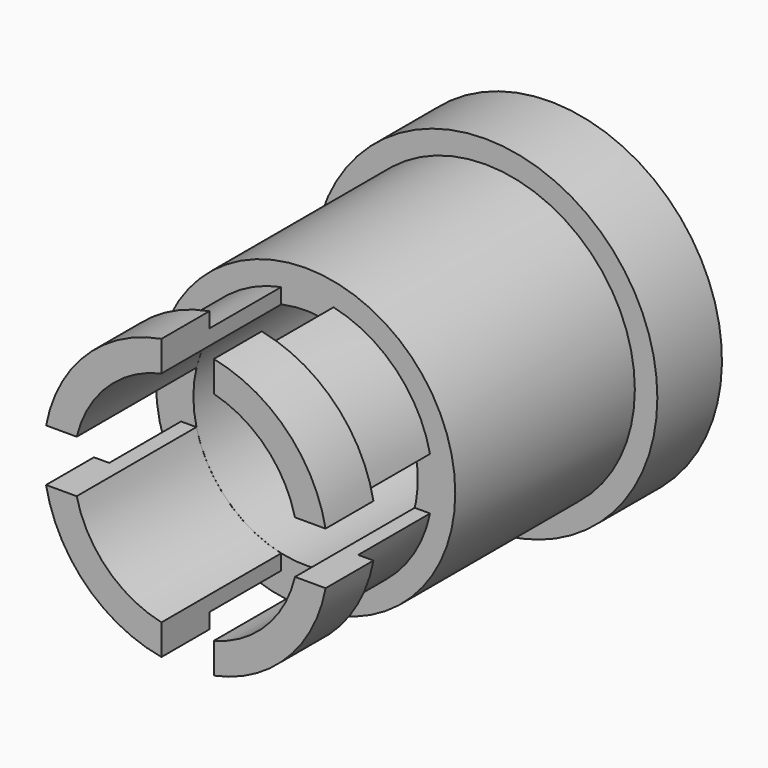
from build123d import *

# Parameters (mm, degrees)
CYLINDER024_R             = 2.3
CYLINDER024_DEPTH         = 2
TUBE002_R                 = 2
TUBE002_R_2               = 1.5
TUBE002_DEPTH             = 3
BOX029_W                  = 3
BOX029_H                  = 10
BOX029_DEPTH              = 0.7
BOX028_W                  = 3
BOX028_H                  = 10
BOX028_DEPTH              = 0.7
BOX027_W                  = 3
BOX027_H                  = 10
BOX027_DEPTH              = 0.7
BOX026_W                  = 3
BOX026_H                  = 10
BOX026_DEPTH              = 0.7
TUBE004_R                 = 1.9
TUBE004_R_2               = 1.5
TUBE004_DEPTH             = 0.8
TUBE003_R                 = 1.7
TUBE003_R_2               = 1.5
TUBE003_DEPTH             = 2
FUSION004_PLACEMENT_ANGLE = 180


with BuildPart() as cylinder024:
    # Cylinder024 → Cylinder024 (new body)
    with BuildSketch(Plane(origin=(0, -31.287, 1.982), x_dir=(1, 0, 0), z_dir=(0, -1, 0))):
        Circle(CYLINDER024_R)
    extrude(amount=CYLINDER024_DEPTH)


with BuildPart() as common:
    # Sphere → Sphere (revolve)
    with BuildSketch(Plane(origin=(0, -25.755, 1.989), x_dir=(1, 0, 0), z_dir=(0, -1, 0))):
        with BuildLine():
            ThreePointArc((0, -7), (7, 0), (0, 7))
            Line((0, 7), (0, -7))
        make_face()
    revolve(axis=Axis((0, -25.755, 1.989), (0, 0, 1)))

    # Common: intersect Cylinder024
    add(cylinder024.part, mode=Mode.INTERSECT)


with BuildPart() as common_1:
    # Common placement: moved
    add(common.part.moved(Location((0, 33.12, -0.018))))


with BuildPart() as fusion003:
    # Tube002 → Tube002 (new body)
    with BuildSketch(Plane(origin=(0, 4.834, 1.964), x_dir=(1, 0, 0), z_dir=(0, -1, 0))):
        Circle(TUBE002_R)
        Circle(TUBE002_R_2, mode=Mode.SUBTRACT)
    extrude(amount=TUBE002_DEPTH)

    # Fusion003: union Common
    add(common_1.part)


with BuildPart() as cube009:
    # Box029 → Box029 (new body)
    with BuildSketch(Plane(origin=(0.326, -0.784, 2.677), x_dir=(0, 0, 1), z_dir=(-1, 0, 0))):
        with Locations((1.5, 5)):
            Rectangle(BOX029_W, BOX029_H)
    extrude(amount=BOX029_DEPTH)


with BuildPart() as cube008:
    # Box028 → Box028 (new body)
    with BuildSketch(Plane(origin=(-3.072, -0.784, 1.616), x_dir=(1, 0, 0), z_dir=(0, 0, 1))):
        with Locations((1.5, 5)):
            Rectangle(BOX028_W, BOX028_H)
    extrude(amount=BOX028_DEPTH)


with BuildPart() as cube007:
    # Box027 → Box027 (new body)
    with BuildSketch(Plane(origin=(0, -0.784, 1.616), x_dir=(1, 0, 0), z_dir=(0, 0, 1))):
        with Locations((1.5, 5)):
            Rectangle(BOX027_W, BOX027_H)
    extrude(amount=BOX027_DEPTH)


with BuildPart() as cube006:
    # Box026 → Box026 (new body)
    with BuildSketch(Plane(origin=(0.326, -0.784, -1.491), x_dir=(0, 0, 1), z_dir=(-1, 0, 0))):
        with Locations((1.5, 5)):
            Rectangle(BOX026_W, BOX026_H)
    extrude(amount=BOX026_DEPTH)


with BuildPart() as tube004:
    # Tube004 → Tube004 (new body)
    with BuildSketch(Plane(origin=(0, 6.835, 1.964), x_dir=(1, 0, 0), z_dir=(0, -1, 0))):
        Circle(TUBE004_R)
        Circle(TUBE004_R_2, mode=Mode.SUBTRACT)
    extrude(amount=TUBE004_DEPTH)


with BuildPart() as lens:
    # Tube003 → Tube003 (new body)
    with BuildSketch(Plane(origin=(0, 6.835, 1.964), x_dir=(1, 0, 0), z_dir=(0, -1, 0))):
        Circle(TUBE003_R)
        Circle(TUBE003_R_2, mode=Mode.SUBTRACT)
    extrude(amount=TUBE003_DEPTH)

    # Fusion002: union Tube004
    add(tube004.part)

    # Cut046: cut Cube006
    add(cube006.part, mode=Mode.SUBTRACT)

    # Cut047: cut Cube007
    add(cube007.part, mode=Mode.SUBTRACT)

    # Cut048: cut Cube008
    add(cube008.part, mode=Mode.SUBTRACT)

    # Cut049: cut Cube009
    add(cube009.part, mode=Mode.SUBTRACT)

    # Fusion004: union Fusion003
    add(fusion003.part)


with BuildPart() as lens_1:
    # Fusion004 placement: moved
    add(lens.part.moved(Location((17.947, -16.852, 17.668))).rotate(Axis((17.947, -16.852, 17.668), (0, 0, 1)), FUSION004_PLACEMENT_ANGLE))


solid = lens_1.part
